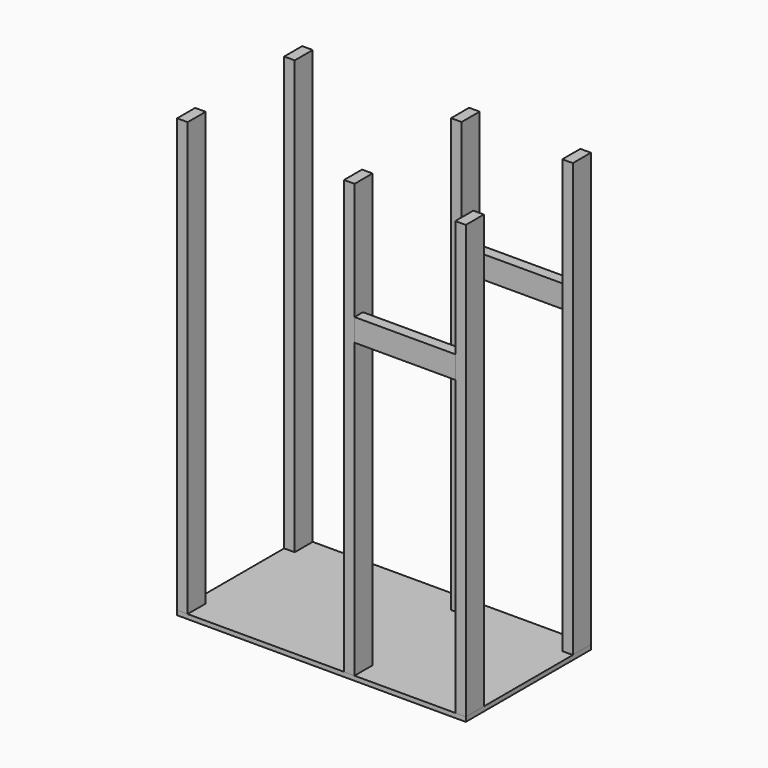
from build123d import *

# Parameters (mm, degrees)
F0_W      = 1219.2
F0_H      = 660.4
F1_DEPTH  = 19.05
F2_W      = 44.45
F2_H      = 95.25
F3_DEPTH  = 1828.8
F4_DEPTH  = 1828.8
F5_DEPTH  = 1828.8
F6_DEPTH  = 1828.8
F7_DEPTH  = 1828.8
F8_DEPTH  = 1828.8
F9_W      = 44.45
F9_H      = 95.25
F10_DEPTH = 425.45
F11_W     = 44.45
F11_H     = 95.25
F12_DEPTH = 425.45


with BuildPart() as f1:
    # F0 (on Top) → F1 (new body)
    with BuildSketch(Plane.XY):
        Rectangle(F0_W, F0_H)
    extrude(amount=F1_DEPTH)


with BuildPart() as f3:
    # F2 (on face) → F3 (new body)
    with BuildSketch(Plane.XY.offset(19.05)):
        with Locations((-587.375, 282.575)):
            Rectangle(F2_W, F2_H)
    extrude(amount=F3_DEPTH)


with BuildPart() as f4:
    # F2 (on face) → F4 (new body)
    with BuildSketch(Plane.XY.offset(19.05)):
        with Locations((117.475, 282.575)):
            Rectangle(F2_W, F2_H)
    extrude(amount=F4_DEPTH)


with BuildPart() as f5:
    # F2 (on face) → F5 (new body)
    with BuildSketch(Plane.XY.offset(19.05)):
        with Locations((587.375, 282.575)):
            Rectangle(F2_W, F2_H)
    extrude(amount=F5_DEPTH)


with BuildPart() as f6:
    # F2 (on face) → F6 (new body)
    with BuildSketch(Plane.XY.offset(19.05)):
        with Locations((-587.375, -282.575)):
            Rectangle(F2_W, F2_H)
    extrude(amount=F6_DEPTH)


with BuildPart() as f7:
    # F2 (on face) → F7 (new body)
    with BuildSketch(Plane.XY.offset(19.05)):
        with Locations((117.475, -282.575)):
            Rectangle(F2_W, F2_H)
    extrude(amount=F7_DEPTH)


with BuildPart() as f8:
    # F2 (on face) → F8 (new body)
    with BuildSketch(Plane.XY.offset(19.05)):
        with Locations((587.375, -282.575)):
            Rectangle(F2_W, F2_H)
    extrude(amount=F8_DEPTH)


with BuildPart() as f10:
    # F9 (on face) → F10 (new body)
    with BuildSketch(Plane.YZ.offset(139.7)):
        with Locations((-307.975, 1304.925)):
            Rectangle(F9_W, F9_H)
    extrude(amount=F10_DEPTH)


with BuildPart() as f12:
    # F11 (on face) → F12 (new body)
    with BuildSketch(Plane.YZ.offset(139.7)):
        with Locations((307.975, 1304.925)):
            Rectangle(F11_W, F11_H)
    extrude(amount=F12_DEPTH)


solid = Compound([f1.part, f3.part, f4.part, f5.part, f6.part, f7.part, f8.part, f10.part, f12.part])
